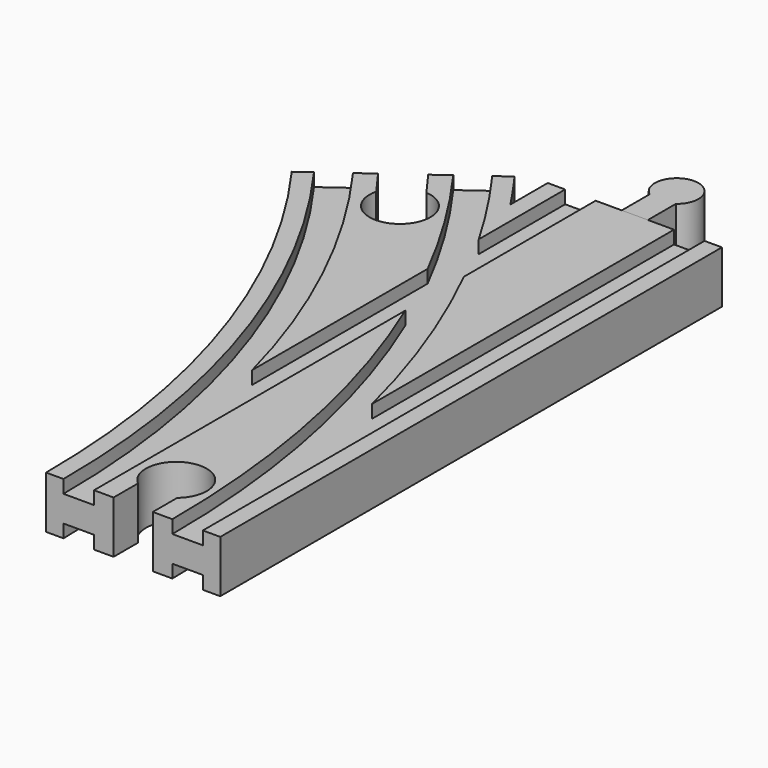
from build123d import *

# Parameters (mm, degrees)
SKETCH004_W          = 7
SKETCH004_H          = 3
SKETCH005_W          = 7
SKETCH005_H          = 3
SKETCH009_W          = 7
SKETCH009_H          = 3
SKETCH010_W          = 7
SKETCH010_H          = 3
POCKET_DEPTH         = 6.001
POCKET_DEPTH_BACK    = -6.001
POCKET001_DEPTH      = 6.001
POCKET001_DEPTH_BACK = -6.001
PAD001_DEPTH         = 6


with BuildPart() as body:
    # AdditivePipe: sweep along a path in Sketch002
    with BuildLine(Plane.XY) as additivepipe_path:
        ThreePointArc((0, 0), (-10.865453, 68.601773), (-42.398227, 130.488326))
    # Sketch → AdditivePipe (sweep)
    with BuildSketch(Plane.XZ):
        Polygon((-20, 6), (-20, -6), (-16, -6), (-16, -3), (-9, -3), (-9, -6), (9, -6), (9, -3), (16, -3), (16, -6), (20, -6), (20, 6), (16, 6), (16, 3), (9, 3), (9, 6), (-9, 6), (-9, 3), (-16, 3), (-16, 6), align=None)
    sweep(path=additivepipe_path.line)

    # AdditivePipe001: sweep along a path in Sketch001
    with BuildLine(Plane.XY) as additivepipe001_path:
        Line((0, 0), (0, 144))
    # Sketch → AdditivePipe001 (sweep)
    with BuildSketch(Plane.XZ):
        Polygon((-20, 6), (-20, -6), (-16, -6), (-16, -3), (-9, -3), (-9, -6), (9, -6), (9, -3), (16, -3), (16, -6), (20, -6), (20, 6), (16, 6), (16, 3), (9, 3), (9, 6), (-9, 6), (-9, 3), (-16, 3), (-16, 6), align=None)
    sweep(path=additivepipe001_path.line)

    # SubtractivePipe: sweep along a path in Sketch001
    with BuildLine(Plane.XY) as subtractivepipe_path:
        Line((0, 0), (0, 144))
    # Sketch004 → SubtractivePipe (sweep, cut)
    with BuildSketch(Plane.XZ):
        with Locations((-12.5, 4.5)):
            Rectangle(SKETCH004_W, SKETCH004_H)
    sweep(path=subtractivepipe_path.line, mode=Mode.SUBTRACT)

    # SubtractivePipe001: sweep along a path in Sketch002
    with BuildLine(Plane.XY) as subtractivepipe001_path:
        ThreePointArc((0, 0), (-10.865453, 68.601773), (-42.398227, 130.488326))
    # Sketch004 → SubtractivePipe001 (sweep, cut)
    with BuildSketch(Plane.XZ):
        with Locations((-12.5, 4.5)):
            Rectangle(SKETCH004_W, SKETCH004_H)
    sweep(path=subtractivepipe001_path.line, mode=Mode.SUBTRACT)

    # SubtractivePipe002: sweep along a path in Sketch002
    with BuildLine(Plane.XY) as subtractivepipe002_path:
        ThreePointArc((0, 0), (-10.865453, 68.601773), (-42.398227, 130.488326))
    # Sketch005 (on Face1 of SubtractivePipe001) → SubtractivePipe002 (sweep, cut)
    with BuildSketch(Plane.XZ):
        with Locations((12.5, 4.5)):
            Rectangle(SKETCH005_W, SKETCH005_H)
    sweep(path=subtractivepipe002_path.line, mode=Mode.SUBTRACT)

    # SubtractivePipe003: sweep along a path in Sketch001
    with BuildLine(Plane.XY) as subtractivepipe003_path:
        Line((0, 0), (0, 144))
    # Sketch005 (on Face1 of SubtractivePipe001) → SubtractivePipe003 (sweep, cut)
    with BuildSketch(Plane.XZ):
        with Locations((12.5, 4.5)):
            Rectangle(SKETCH005_W, SKETCH005_H)
    subtractivepipe003 = sweep(path=subtractivepipe003_path.line, mode=Mode.SUBTRACT)

    # Mirrored: SubtractivePipe003 across XY
    add(subtractivepipe003.mirror(Plane.XY), mode=Mode.SUBTRACT)

    # SubtractivePipe004: sweep along a path in Sketch002
    with BuildLine(Plane.XY) as subtractivepipe004_path:
        ThreePointArc((0, 0), (-10.865453, 68.601773), (-42.398227, 130.488326))
    # Sketch009 → SubtractivePipe004 (sweep, cut)
    with BuildSketch(Plane.XZ):
        with Locations((-12.5, -4.5)):
            Rectangle(SKETCH009_W, SKETCH009_H)
    sweep(path=subtractivepipe004_path.line, mode=Mode.SUBTRACT)

    # SubtractivePipe005: sweep along a path in Sketch001
    with BuildLine(Plane.XY) as subtractivepipe005_path:
        Line((0, 0), (0, 144))
    # Sketch009 → SubtractivePipe005 (sweep, cut)
    with BuildSketch(Plane.XZ):
        with Locations((-12.5, -4.5)):
            Rectangle(SKETCH009_W, SKETCH009_H)
    sweep(path=subtractivepipe005_path.line, mode=Mode.SUBTRACT)

    # SubtractivePipe006: sweep along a path in Sketch002
    with BuildLine(Plane.XY) as subtractivepipe006_path:
        ThreePointArc((0, 0), (-10.865453, 68.601773), (-42.398227, 130.488326))
    # Sketch010 (on Face1 of SubtractivePipe005) → SubtractivePipe006 (sweep, cut)
    with BuildSketch(Plane.XZ):
        with Locations((12.5, -4.5)):
            Rectangle(SKETCH010_W, SKETCH010_H)
    sweep(path=subtractivepipe006_path.line, mode=Mode.SUBTRACT)

    # Sketch012 → Pocket (cut, two sides)
    with BuildSketch(Plane.XY) as pocket_sk:
        with BuildLine():
            Line((-46.038804, 127.843292), (-38.757651, 133.13336))
            Line((-38.757651, 133.13336), (-34.643154, 127.470241))
            ThreePointArc((-41.924307, 122.180173), (-31.017586, 114.824218), (-34.643154, 127.470241))
            Line((-46.038804, 127.843292), (-41.924307, 122.180173))
        make_face()
    extrude(amount=-POCKET_DEPTH, mode=Mode.SUBTRACT)
    extrude(pocket_sk.sketch, amount=-POCKET_DEPTH_BACK, mode=Mode.SUBTRACT)

    # Sketch013 → Pocket001 (cut, two sides)
    with BuildSketch(Plane.XY) as pocket001_sk:
        with BuildLine():
            Line((-4.5, 0), (4.5, 0))
            Line((4.5, 0), (4.5, 7))
            ThreePointArc((4.5, 7), (0, 19.361903), (-4.5, 7))
            Line((-4.5, 0), (-4.5, 7))
        make_face()
    extrude(amount=-POCKET001_DEPTH, mode=Mode.SUBTRACT)
    extrude(pocket001_sk.sketch, amount=-POCKET001_DEPTH_BACK, mode=Mode.SUBTRACT)


with BuildPart() as body002:
    # Sketch011 → Pad001 (new body, symmetric)
    with BuildSketch(Plane.XY):
        with BuildLine():
            Line((-3, 144), (3, 144))
            Line((3, 144), (3, 152))
            ThreePointArc((3, 152), (0, 161), (-3, 152))
            Line((-3, 144), (-3, 152))
        make_face()
    extrude(amount=PAD001_DEPTH, both=True)


solid = Compound([body.part, body002.part])
